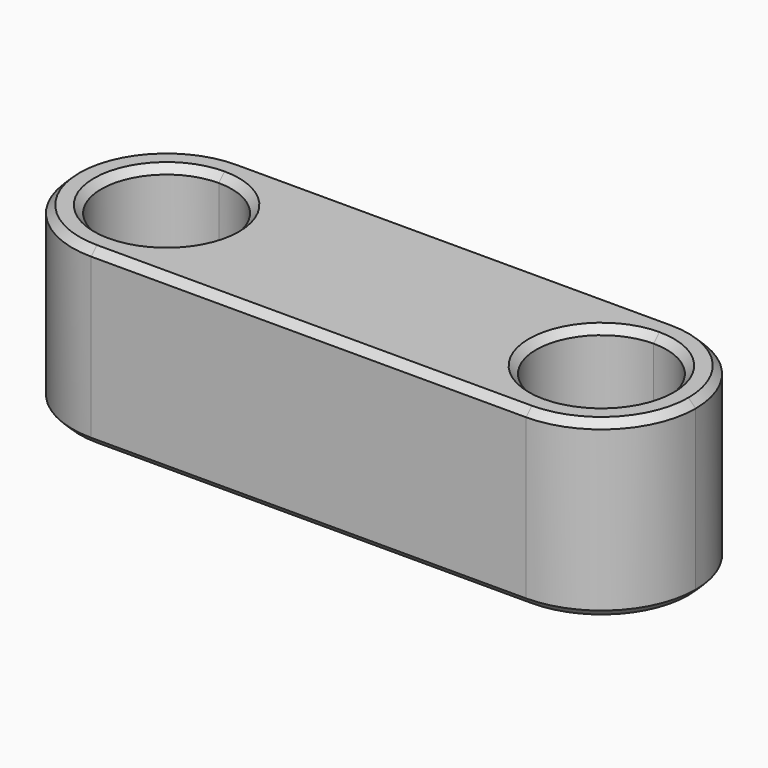
from build123d import *

# Parameters (mm, degrees)
F1_DEPTH = 12
F2_SIZE  = 0.5


with BuildPart() as f1:
    # F0 (on Top) → F1 (new body)
    with BuildSketch(Plane.XY):
        with BuildLine():
            Line((-11.60309311, 3.5892210044), (-11.60309311, 5.5892210044))
            ThreePointArc((-11.60309311, 5.5892210044), (-18.10309311, -0.9107789956), (-11.60309311, -7.4107789956))
            Line((-11.60309311, -7.4107789956), (-11.60309311, -5.4107789956))
            ThreePointArc((-11.60309311, -5.4107789956), (-16.10309311, -0.9107789956), (-11.60309311, 3.5892210044))
        make_face()
        with BuildLine():
            ThreePointArc((-5.10309311, -0.9107789956), (-7.0068990323, 3.6854150821), (-11.60309311, 5.5892210044))
            Line((-11.60309311, 5.5892210044), (-11.60309311, 3.5892210044))
            ThreePointArc((-11.60309311, 3.5892210044), (-8.4211125947, 2.2712015197), (-7.10309311, -0.9107789956))
            ThreePointArc((-7.10309311, -0.9107789956), (-8.4211125947, -4.0927595109), (-11.60309311, -5.4107789956))
            Line((-11.60309311, -5.4107789956), (-6.9126773502, -5.4107789956))
            ThreePointArc((-6.9126773502, -5.4107789956), (-5.572433841, -3.3358869892), (-5.10309311, -0.9107789956))
        make_face()
        with BuildLine():
            Line((18.39690689, 5.5892210044), (-11.60309311, 5.5892210044))
            ThreePointArc((-11.60309311, 5.5892210044), (-7.0068990323, 3.6854150821), (-5.10309311, -0.9107789956))
            ThreePointArc((-5.10309311, -0.9107789956), (-5.572433841, -3.3358869892), (-6.9126773502, -5.4107789956))
            Line((-6.9126773502, -5.4107789956), (13.7064911302, -5.4107789956))
            ThreePointArc((13.7064911302, -5.4107789956), (12.4177765184, 1.6387307612), (18.39690689, 5.5892210044))
        make_face()
        with BuildLine():
            Line((18.39690689, 3.5892210044), (18.39690689, 5.5892210044))
            ThreePointArc((18.39690689, 5.5892210044), (12.4177765184, 1.6387307612), (13.7064911302, -5.4107789956))
            Line((13.7064911302, -5.4107789956), (18.39690689, -5.4107789956))
            ThreePointArc((18.39690689, -5.4107789956), (13.89690689, -0.9107789956), (18.39690689, 3.5892210044))
        make_face()
        with BuildLine():
            ThreePointArc((24.89690689, -0.9107789956), (22.9931009677, 3.6854150821), (18.39690689, 5.5892210044))
            Line((18.39690689, 5.5892210044), (18.39690689, 3.5892210044))
            ThreePointArc((18.39690689, 3.5892210044), (21.5788874053, 2.2712015197), (22.89690689, -0.9107789956))
            ThreePointArc((22.89690689, -0.9107789956), (21.5788874053, -4.0927595109), (18.39690689, -5.4107789956))
            Line((18.39690689, -5.4107789956), (18.39690689, -7.4107789956))
            ThreePointArc((18.39690689, -7.4107789956), (22.9931009677, -5.5069730733), (24.89690689, -0.9107789956))
        make_face()
        with BuildLine():
            Line((18.39690689, -5.4107789956), (13.7064911302, -5.4107789956))
            ThreePointArc((13.7064911302, -5.4107789956), (15.8473971332, -6.8899093672), (18.39690689, -7.4107789956))
            Line((18.39690689, -7.4107789956), (18.39690689, -5.4107789956))
        make_face()
        with BuildLine():
            ThreePointArc((-6.9126773502, -5.4107789956), (-9.0535833532, -6.8899093672), (-11.60309311, -7.4107789956))
            Line((-11.60309311, -7.4107789956), (18.39690689, -7.4107789956))
            ThreePointArc((18.39690689, -7.4107789956), (15.8473971332, -6.8899093672), (13.7064911302, -5.4107789956))
            Line((13.7064911302, -5.4107789956), (-6.9126773502, -5.4107789956))
        make_face()
        with BuildLine():
            Line((-11.60309311, -5.4107789956), (-11.60309311, -7.4107789956))
            ThreePointArc((-11.60309311, -7.4107789956), (-9.0535833532, -6.8899093672), (-6.9126773502, -5.4107789956))
            Line((-6.9126773502, -5.4107789956), (-11.60309311, -5.4107789956))
        make_face()
    extrude(amount=F1_DEPTH)

    # F2
    f2_edges = [f1.edges().sort_by_distance(p)[0] for p in [
        (-18.103093, -0.910779, 12),
        (3.396907, -7.410779, 12),
        (24.896907, -0.910779, 12),
        (3.396907, 5.589221, 12),
        (-11.603093, 3.589221, 12),
        (18.396907, 3.589221, 12),
        (-18.103093, -0.910779, 0),
        (3.396907, -7.410779, 0),
        (24.896907, -0.910779, 0),
        (3.396907, 5.589221, 0),
        (-11.603093, 3.589221, 0),
        (18.396907, 3.589221, 0),
    ]]
    chamfer(f2_edges, length=F2_SIZE)


with BuildPart() as f3_1:
    # F3: copy of F1
    add(f1.part.moved(Location((0, -24.4623, 0))))


solid = f1.part
